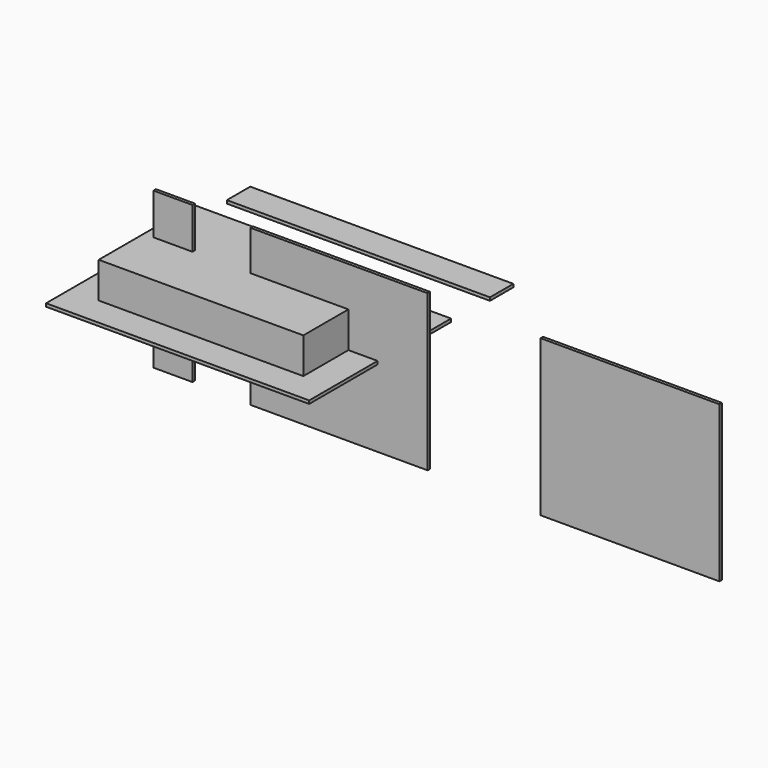
from build123d import *

# Parameters (mm, degrees)
F1_W     = 1350
F1_H     = 150
F2_DEPTH = 16
F1_H_2   = 910
F1_W_2   = 1050
F1_H_3   = 610
F3_DEPTH = 16
F4_W     = 200
F4_H     = 800
F5_DEPTH = 16
F4_W_2   = 910
F6_DEPTH = 16
F4_W_3   = 918
F7_DEPTH = 16
F8_DEPTH = 200


with BuildPart() as f2:
    # F1 (on Top) → F2 (new body)
    with BuildSketch(Plane.XY):
        with Locations((6.7500948906, 771.1411237717)):
            Rectangle(F1_W, F1_H)
    extrude(amount=F2_DEPTH)


with BuildPart() as f3:
    # F1 (on Top) → F3 (new body)
    with BuildSketch(Plane.XY):
        Rectangle(F1_W, F1_H_2)
        Rectangle(F1_W_2, F1_H_3, mode=Mode.SUBTRACT)
        Rectangle(F1_W_2, F1_H_3)
    extrude(amount=F3_DEPTH)


with BuildPart() as f5:
    # F4 (on Front) → F5 (new body)
    with BuildSketch(Plane.XZ):
        with Locations((-375.3559490335, 11.3419480622)):
            Rectangle(F4_W, F4_H)
    extrude(amount=F5_DEPTH)


with BuildPart() as f6:
    # F4 (on Front) → F6 (new body)
    with BuildSketch(Plane.XZ):
        with Locations((476.867942065, 5.0315797329)):
            Rectangle(F4_W_2, F4_H)
    extrude(amount=F6_DEPTH)


with BuildPart() as f7:
    # F4 (on Front) → F7 (new body)
    with BuildSketch(Plane.XZ):
        with Locations((1969.770201683, -9.5369577408)):
            Rectangle(F4_W_3, F4_H)
    extrude(amount=F7_DEPTH)


with BuildPart() as f8:
    # F1 (on Top) → F8 (new body)
    with BuildSketch(Plane.XY):
        Rectangle(F1_W_2, F1_H_3)
    extrude(amount=F8_DEPTH)


solid = Compound([f2.part, f3.part, f5.part, f6.part, f7.part, f8.part])
